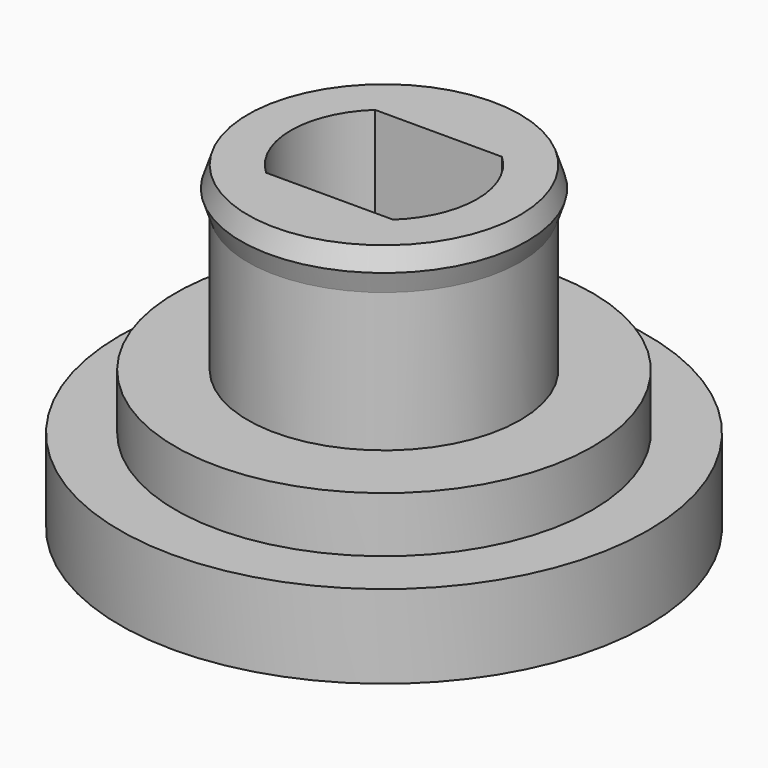
from build123d import *

# Parameters (mm, degrees)
F0_R     = 9.5
F0_R_2   = 7.5
F1_DEPTH = 3
F0_R_3   = 4.9
F2_DEPTH = 5
F3_DEPTH = 11.5


with BuildPart() as f1:
    # F0 (on Top) → F1 (new body)
    with BuildSketch(Plane.XY):
        Circle(F0_R)
        Circle(F0_R_2, mode=Mode.SUBTRACT)
    extrude(amount=F1_DEPTH)

    # F0 (on Top) → F2 (join)
    with BuildSketch(Plane.XY):
        Circle(F0_R_2)
        Circle(F0_R_3, mode=Mode.SUBTRACT)
    extrude(amount=F2_DEPTH)

    # F0 (on Top) → F3 (join)
    with BuildSketch(Plane.XY):
        Circle(F0_R_3)
        with BuildLine():
            ThreePointArc((-2.2847319318, -2.45), (-3.35, 0), (-2.2847319318, 2.45))
            Line((-2.2847319318, 2.45), (2.2847319318, 2.45))
            ThreePointArc((2.2847319318, 2.45), (3.35, 0), (2.2847319318, -2.45))
            Line((2.2847319318, -2.45), (-2.2847319318, -2.45))
        make_face(mode=Mode.SUBTRACT)
    extrude(amount=F3_DEPTH)

    # F4 (on Front) → F5 (revolve)
    with BuildSketch(Plane.XZ):
        Polygon((5.15, 10.75), (4.9, 11.5), (4.9, 10), align=None)
    revolve(axis=Axis((0, 0, 8.9765712619), (0, 0, 1)))


solid = f1.part
